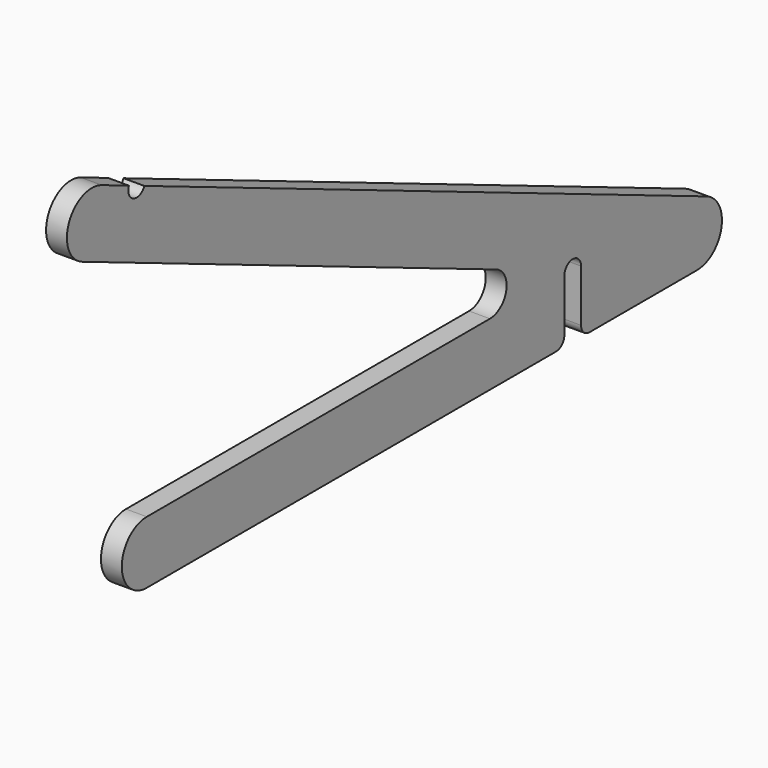
from build123d import *

# Parameters (mm, degrees)
F0_R     = 1.27
F1_DEPTH = 6.35


with BuildPart() as f1:
    # F0 (on Right) → F1 (new body)
    with BuildSketch(Plane.YZ):
        with BuildLine():
            ThreePointArc((116.750538, -50.692635), (126.088182, -43.047537), (120.436387, -32.384689))
            Line((120.436387, -32.384689), (-93.737434, 57.495441))
            ThreePointArc((-93.737434, 57.495441), (-97.893699, 55.796408), (-99.592732, 59.952673))
            Line((-99.592732, 59.952673), (-110.015241, 64.326581))
            ThreePointArc((-110.015241, 64.326581), (-122.484036, 59.229484), (-117.386939, 46.760689))
            Line((-117.386939, 46.760689), (40.355204, -19.437338))
            ThreePointArc((40.355204, -19.437338), (44.123068, -26.545903), (37.897972, -31.642635))
            Line((37.897972, -31.642635), (-92.790544, -31.642635))
            ThreePointArc((-92.790544, -31.642635), (-102.315544, -41.167635), (-92.790544, -50.692635))
            Line((-92.790544, -50.692635), (63.088998, -50.692635))
            ThreePointArc((63.088998, -50.692635), (65.334062, -49.7627), (66.263998, -47.517635))
            Line((66.263998, -47.517635), (66.263998, -31.642635))
            ThreePointArc((66.263998, -31.642635), (69.438998, -28.467635), (72.613998, -31.642635))
            Line((72.613998, -31.642635), (72.613998, -47.517635))
            ThreePointArc((72.613998, -47.517635), (73.543934, -49.7627), (75.788998, -50.692635))
            Line((75.788998, -50.692635), (116.750538, -50.692635))
        make_face()
        with Locations((108.209478, -36.894451)):
            Circle(F0_R, mode=Mode.SUBTRACT)
        with Locations((97.462779, -32.384689)):
            Circle(F0_R, mode=Mode.SUBTRACT)
        with Locations((108.209478, -36.894451)):
            Circle(F0_R)
        with Locations((97.462779, -32.384689)):
            Circle(F0_R)
    extrude(amount=F1_DEPTH)


solid = f1.part
